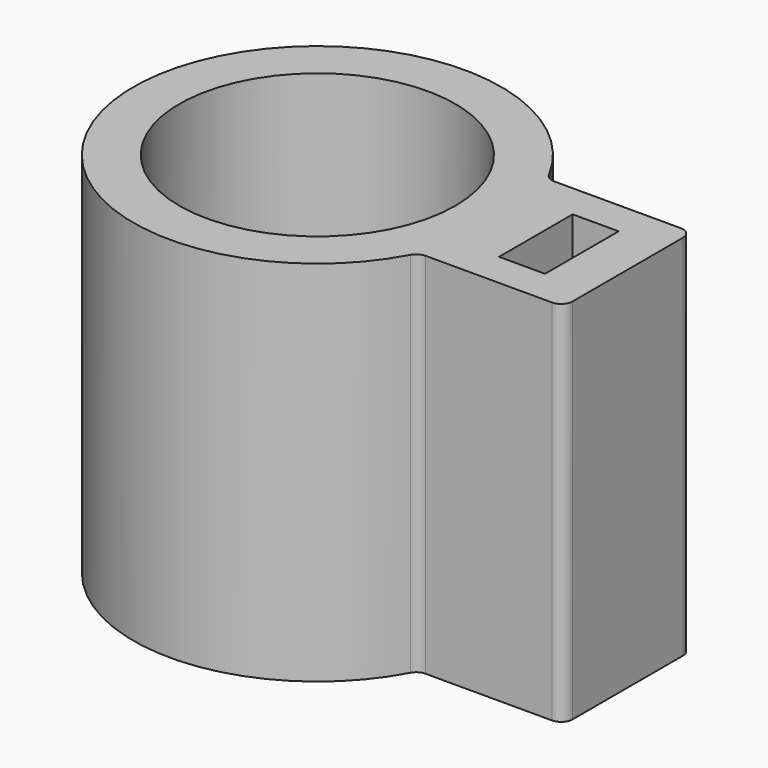
from build123d import *

# Parameters (mm, degrees)
F0_R     = 38.1
F0_W     = 12.7
F0_H     = 25.4
F1_DEPTH = 50.8


with BuildPart() as f1:
    # F0 (on Top) → F1 (new body, symmetric)
    with BuildSketch(Plane.XY):
        with BuildLine():
            Line((82.55, 22.225), (47.625, 22.225))
            ThreePointArc((47.625, 22.225), (45.991476, 22.67746), (44.823529, 23.905882))
            ThreePointArc((44.823529, 23.905882), (-50.8, 0), (44.823529, -23.905882))
            ThreePointArc((44.823529, -23.905882), (45.991476, -22.67746), (47.625, -22.225))
            Line((47.625, -22.225), (82.55, -22.225))
            ThreePointArc((82.55, -22.225), (84.795064, -21.295064), (85.725, -19.05))
            Line((85.725, -19.05), (85.725, 19.05))
            ThreePointArc((85.725, 19.05), (84.795064, 21.295064), (82.55, 22.225))
        make_face()
        Circle(F0_R, mode=Mode.SUBTRACT)
        with Locations((66.675, 0)):
            Rectangle(F0_W, F0_H, mode=Mode.SUBTRACT)
    extrude(amount=F1_DEPTH, both=True)


solid = f1.part
